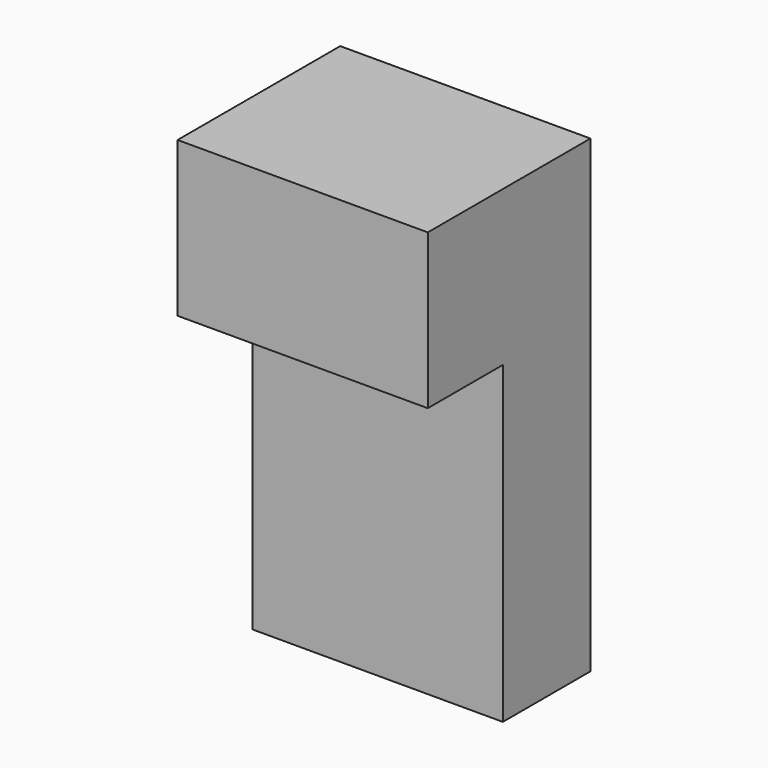
from build123d import *

# Parameters (mm, degrees)
SKETCH003_W     = 150
SKETCH003_H     = 80
PAD001_DEPTH    = 65
SKETCH004_W     = 100.5
SKETCH004_H     = 60
POCKET002_DEPTH = 30
SKETCH005_W     = 30
SKETCH005_H     = 100.5
POCKET003_DEPTH = 80.001


with BuildPart() as part:
    # Sketch003 (on Face1 of CopyChamfer002) → Pad001 (new body)
    with BuildSketch(Plane.ZX.offset(15)):
        with Locations((25, 0)):
            Rectangle(SKETCH003_W, SKETCH003_H)
    extrude(amount=PAD001_DEPTH)

    # Sketch004 (on Face5 of Pad001) → Pocket002 (cut)
    with BuildSketch(Plane(origin=(0, 15, 0), x_dir=(0, 0, -1), z_dir=(0, -1, 0))):
        with Locations((-0.25, 0)):
            Rectangle(SKETCH004_W, SKETCH004_H)
    extrude(amount=-POCKET002_DEPTH, mode=Mode.SUBTRACT)

    # Sketch005 (on Face1 of Pocket002) → Pocket003 (cut, through all)
    with BuildSketch(Plane.YZ.offset(40)):
        with Locations((30, 0.25)):
            Rectangle(SKETCH005_W, SKETCH005_H)
    extrude(amount=-POCKET003_DEPTH, mode=Mode.SUBTRACT)


solid = part.part
